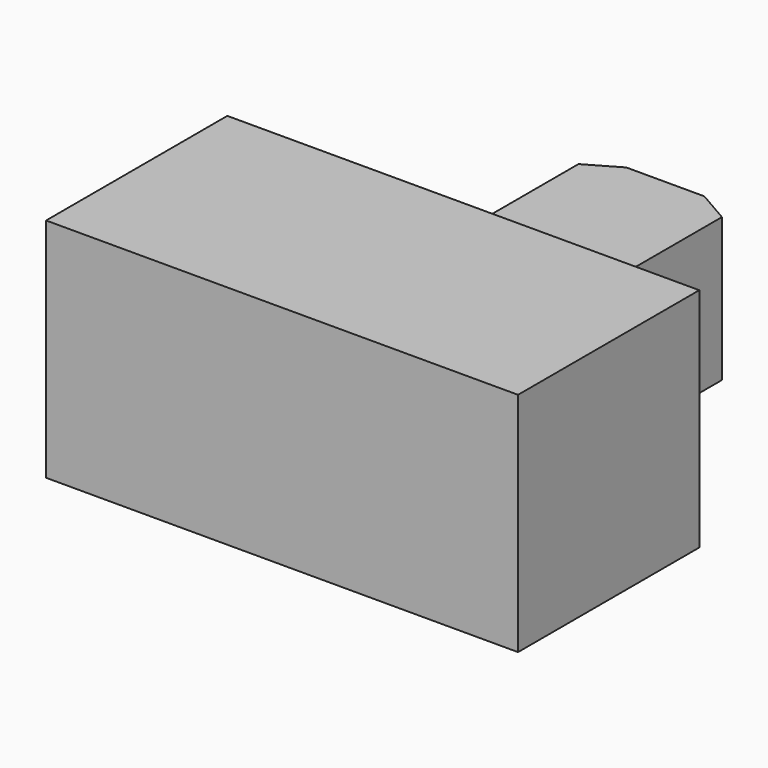
from build123d import *

# Parameters (mm, degrees)
SKETCH_W        = 12.5
SKETCH_H        = 6
PAD001_DEPTH    = 6
SKETCH006_W     = 3.8
SKETCH006_H     = 3.8
PAD002_DEPTH    = 8
CHAMFER_1_ANGLE = 60
CHAMFER_1_SIZE  = 0.5
CHAMFER_2_ANGLE = 60
CHAMFER_2_SIZE  = 0.5


with BuildPart() as part:
    # Sketch → Pad001 (new body)
    with BuildSketch(Plane.XY):
        Rectangle(SKETCH_W, SKETCH_H)
    extrude(amount=PAD001_DEPTH)

    # Sketch006 → Pad002 (join)
    with BuildSketch(Plane.XZ):
        with Locations((1.35, 3)):
            Rectangle(SKETCH006_W, SKETCH006_H)
    extrude(amount=-PAD002_DEPTH)

    # Chamfer 1
    chamfer_1_edges = [part.edges().sort_by_distance(p)[0] for p in [
        (3.25, 8, 3),
    ]]
    chamfer_1_side = part.faces().sort_by_distance((3.25, 5.5, 3))[0]
    chamfer(chamfer_1_edges, length=CHAMFER_1_SIZE, angle=CHAMFER_1_ANGLE, reference=chamfer_1_side)

    # Chamfer 2
    chamfer_2_edges = [part.edges().sort_by_distance(p)[0] for p in [
        (-0.55, 8, 3),
    ]]
    chamfer_2_side = part.faces().sort_by_distance((-0.55, 5.5, 3))[0]
    chamfer(chamfer_2_edges, length=CHAMFER_2_SIZE, angle=CHAMFER_2_ANGLE, reference=chamfer_2_side)


solid = part.part
